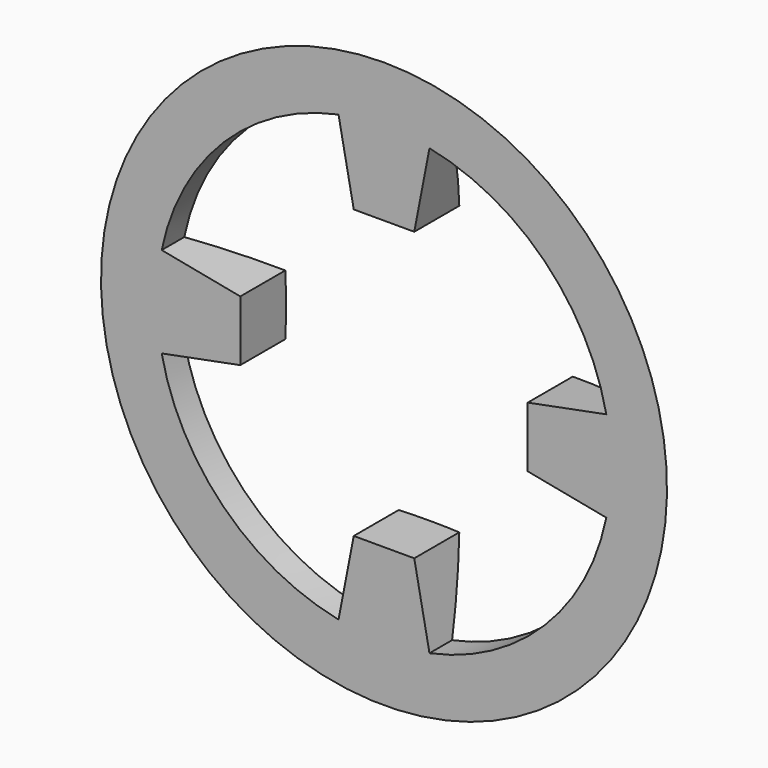
from build123d import *

# Parameters (mm, degrees)
F3_DEPTH = 2.541


with BuildPart() as f1:
    # F0 (on Right) → F1 (revolve)
    with BuildSketch(Plane.YZ):
        with BuildLine():
            Line((16.51, 0), (19.05, 0))
            ThreePointArc((19.05, 0), (18.404048, 4.918689), (16.51, 9.50381))
            Line((16.51, 9.50381), (16.51, 0))
        make_face()
    revolve(axis=Axis((0, 17.78, 0), (0, -1, 0)))

    # F2 (on face) → F3 (cut, through all)
    with BuildSketch(Plane.XZ.offset(-16.51)):
        with BuildLine():
            Line((1.016, -4.826), (1.527208, -7.465389))
            ThreePointArc((1.527208, -7.465389), (5.388154, -5.388154), (7.465389, -1.527208))
            Line((7.465389, -1.527208), (4.826, -1.016))
            Line((4.826, -1.016), (4.826, 0))
            Line((4.826, 0), (4.826, 1.016))
            Line((4.826, 1.016), (7.465389, 1.527208))
            ThreePointArc((7.465389, 1.527208), (5.388154, 5.388154), (1.527208, 7.465389))
            Line((1.527208, 7.465389), (1.016, 4.826))
            Line((1.016, 4.826), (0, 4.826))
            Line((0, 4.826), (-1.016, 4.826))
            Line((-1.016, 4.826), (-1.527208, 7.465389))
            ThreePointArc((-1.527208, 7.465389), (-5.388154, 5.388154), (-7.465389, 1.527208))
            Line((-7.465389, 1.527208), (-4.826, 1.016))
            Line((-4.826, 1.016), (-4.826, 0))
            Line((-4.826, 0), (-4.826, -1.016))
            Line((-4.826, -1.016), (-7.465389, -1.527208))
            ThreePointArc((-7.465389, -1.527208), (-5.388154, -5.388154), (-1.527208, -7.465389))
            Line((-1.527208, -7.465389), (-1.016, -4.826))
            Line((-1.016, -4.826), (0, -4.826))
            Line((0, -4.826), (1.016, -4.826))
        make_face()
    extrude(amount=-F3_DEPTH, mode=Mode.SUBTRACT)


solid = f1.part
